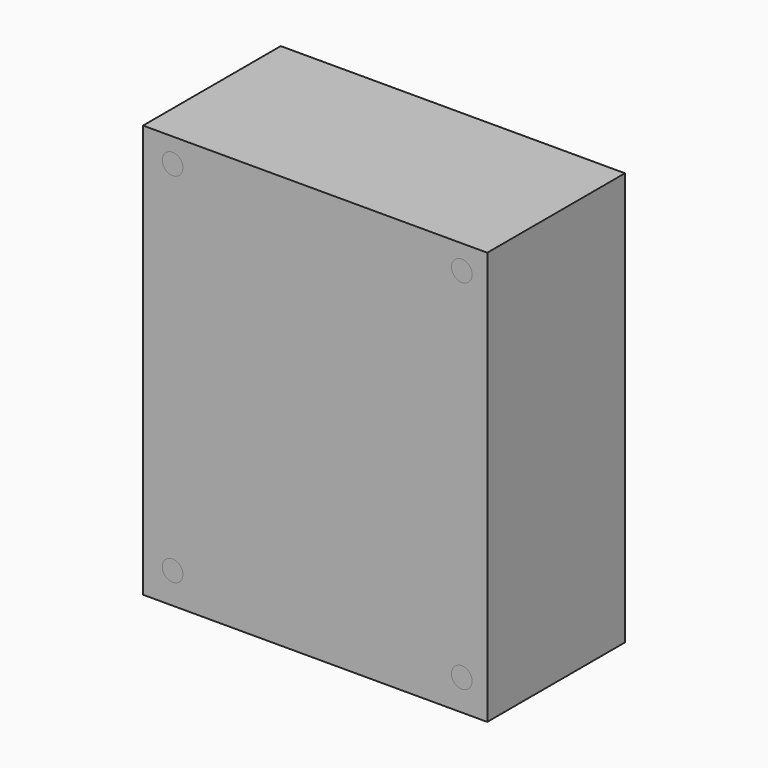
from build123d import *

# Parameters (mm, degrees)
F0_W     = 50
F0_H     = 60
F2_DEPTH = 25
F1_W     = 50
F1_H     = 60
F1_R     = 1.5


with BuildPart() as f2:
    # F0 (on Front) → F2 (new body)
    with BuildSketch(Plane.XZ):
        with Locations((25, -30)):
            Rectangle(F0_W, F0_H)
    extrude(amount=F2_DEPTH)


with BuildPart() as f2b:
    # F1 (on face) → F2, piece 2 (new body)
    with BuildSketch(Plane.XZ):
        with Locations((25, -30)):
            Rectangle(F1_W, F1_H)
        with Locations((4.2955388278, -55.5142813411)):
            Circle(F1_R, mode=Mode.SUBTRACT)
        with Locations((46.2955388278, -55.5142813411)):
            Circle(F1_R, mode=Mode.SUBTRACT)
        with Locations((4.2955388278, -3.5142813411)):
            Circle(F1_R, mode=Mode.SUBTRACT)
        with Locations((46.2955388278, -3.5142813411)):
            Circle(F1_R, mode=Mode.SUBTRACT)
    extrude(amount=F2_DEPTH)


solid = Compound([f2.part, f2b.part])
